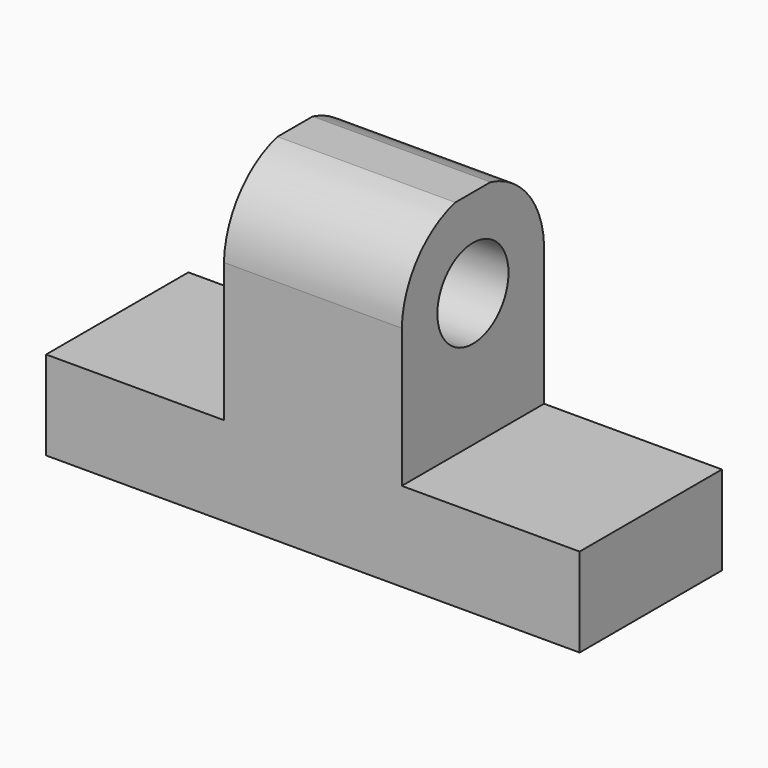
from build123d import *

# Parameters (mm, degrees)
F1_DEPTH = 25.4
F2_R     = 6.35
F3_DEPTH = 25.4


with BuildPart() as f1:
    # F0 (on Front) → F1 (new body)
    with BuildSketch(Plane.XZ):
        Polygon((0, 12.7), (0, 0), (76.2, 0), (76.2, 12.7), (50.8, 12.7), (50.8, 44.45), (25.4, 44.45), (25.4, 12.7), align=None)
    extrude(amount=F1_DEPTH)

    # F2 (on face) → F3 (cut)
    with BuildSketch(Plane.YZ.offset(50.8)):
        with BuildLine():
            ThreePointArc((-9.5586421261, 44.45), (-2.7865480563, 40.0861130576), (0, 32.5270180545))
            Line((0, 32.5270180545), (0, 44.45))
            Line((0, 44.45), (-9.5586421261, 44.45))
        make_face()
        with BuildLine():
            ThreePointArc((-25.4, 32.5270180545), (-22.6134519437, 40.0861130576), (-15.8413578739, 44.45))
            Line((-15.8413578739, 44.45), (-25.4, 44.45))
            Line((-25.4, 44.45), (-25.4, 32.5270180545))
        make_face()
        with Locations((-12.7, 31.75)):
            Circle(F2_R)
    extrude(amount=-F3_DEPTH, mode=Mode.SUBTRACT)


solid = f1.part
